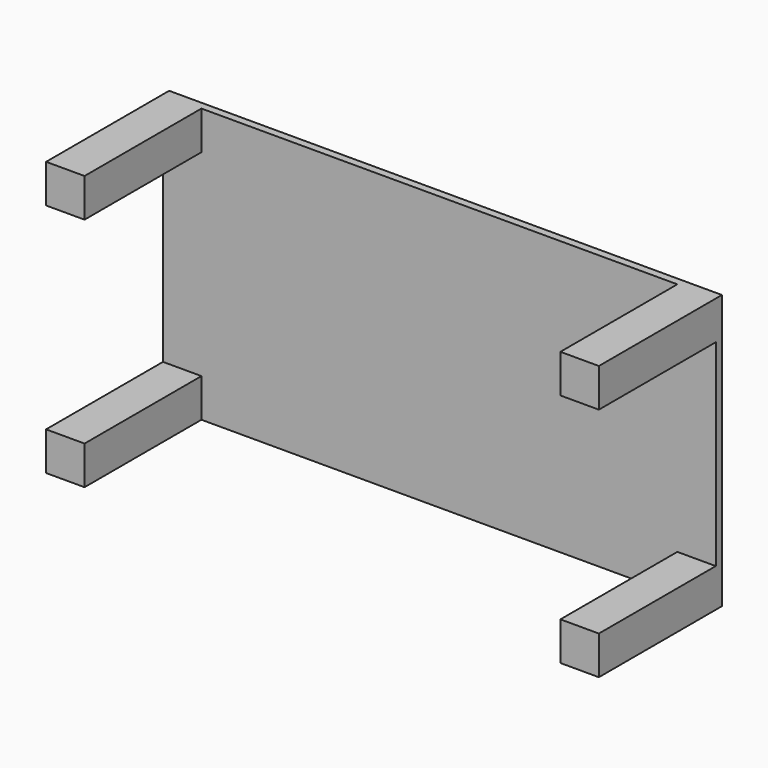
from build123d import *

# Parameters (mm, degrees)
F1_DEPTH = 0.4
F0_W     = 2
F0_H     = 2
F2_DEPTH = 8


with BuildPart() as f1:
    # F0 (on Front) → F1 (new body)
    with BuildSketch(Plane.XZ):
        Polygon((12.375, 5.125), (12.375, 7.125), (-12.375, 7.125), (-12.375, 5.125), (-14.375, 5.125), (-14.375, -5.125), (-12.375, -5.125), (-12.375, -7.125), (12.375, -7.125), (12.375, -5.125), (14.375, -5.125), (14.375, 5.125), align=None)
    extrude(amount=F1_DEPTH)

    # F0 (on Front) → F2 (join)
    with BuildSketch(Plane.XZ):
        with Locations((-13.375, 6.125)):
            Rectangle(F0_W, F0_H)
        with Locations((-13.375, -6.125)):
            Rectangle(F0_W, F0_H)
        with Locations((13.375, -6.125)):
            Rectangle(F0_W, F0_H)
        with Locations((13.375, 6.125)):
            Rectangle(F0_W, F0_H)
    extrude(amount=F2_DEPTH)


solid = f1.part
